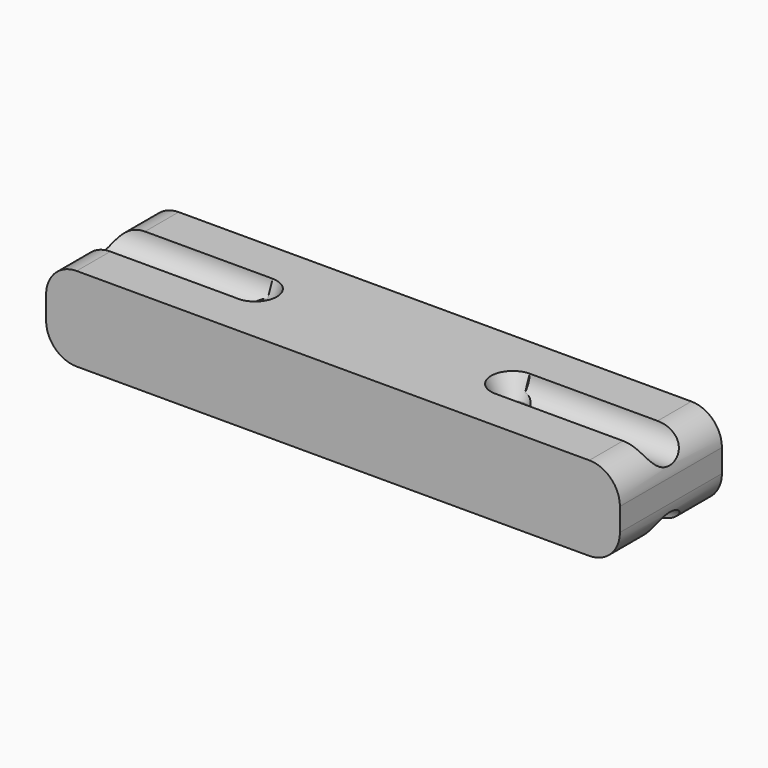
from build123d import *

# Parameters (mm, degrees)
F0_W                 = 57.15
F0_H                 = 8.382
F1_DEPTH             = 6.35
F1_DEPTH_BACK        = 6.35
F2_R                 = 3.048
F5_D                 = 2.54
F5_CSINK_D           = 4.318
F5_CSINK_ANGLE       = 45
F5_ON_F4_D           = 2.54
F5_ON_F4_CSINK_D     = 4.318
F5_ON_F4_CSINK_ANGLE = 45
F7_R                 = 2.1552375293
F7_R_2               = 2.1745763706
F8_DEPTH             = 15.78356
F6_R                 = 2.1575082274
F6_R_2               = 2.1578758636
F9_DEPTH             = 15.7734


with BuildPart() as f1:
    # F0 (on Front) → F1 (new body, two sides)
    with BuildSketch(Plane.XZ) as f1_sk:
        with Locations((7.5424778849, 1.0338034335)):
            Rectangle(F0_W, F0_H)
    extrude(amount=F1_DEPTH)
    extrude(f1_sk.sketch, amount=-F1_DEPTH_BACK)

    # F2
    f2_edges = [f1.edges().sort_by_distance(p)[0] for p in [
        (-21.032522, 0, 5.224803),
        (36.117478, 0, 5.224803),
        (-21.032522, 0, -3.157197),
        (36.117478, 0, -3.157197),
    ]]
    fillet(f2_edges, radius=F2_R)

    # F5 (through all)
    with Locations(Plane.XY.offset(5.2248034335)):
        with Locations((-5.2774393328, -0.0172255386), (20.3694778849, 0)):
            CounterSinkHole(F5_D / 2, F5_CSINK_D / 2, counter_sink_angle=F5_CSINK_ANGLE)

    # F5 on F4 (through all)
    with Locations(Plane(origin=(0, 0, -3.1571965665), x_dir=(1, 0, 0), z_dir=(0, 0, -1))):
        with Locations((20.3817205831, 0), (-5.2966976866, 0)):
            CounterSinkHole(F5_ON_F4_D / 2, F5_ON_F4_CSINK_D / 2, counter_sink_angle=F5_ON_F4_CSINK_ANGLE)

    # F7 (on face) → F8 (cut)
    with BuildSketch(Plane.YZ.offset(36.1174778849)):
        with Locations((0, 5.2797254175)):
            Circle(F7_R)
        with Locations((0, -3.1201594975)):
            Circle(F7_R_2)
    extrude(amount=-F8_DEPTH, mode=Mode.SUBTRACT)

    # F6 (on face) → F9 (cut)
    with BuildSketch(Plane(origin=(-21.0325221151, 0, 0), x_dir=(0, -1, 0), z_dir=(-1, 0, 0))):
        with Locations((0, 5.2316803485)):
            Circle(F6_R)
        with Locations((0, -3.1642527319)):
            Circle(F6_R_2)
    extrude(amount=-F9_DEPTH, mode=Mode.SUBTRACT)


solid = f1.part
